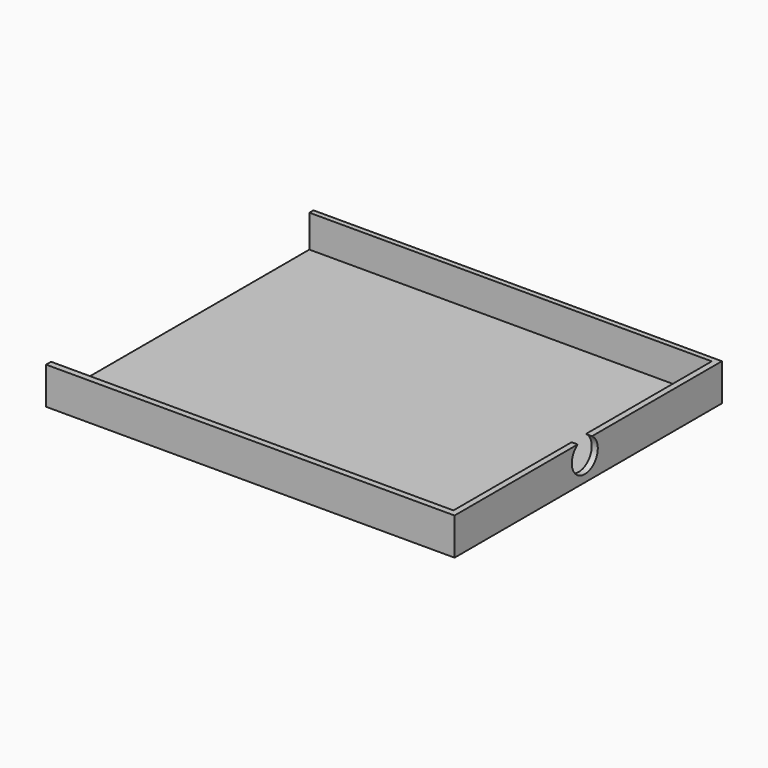
from build123d import *

# Parameters (mm, degrees)
F0_W           = 90
F0_H           = 72
F1_DEPTH       = 8
F2_W           = 87.5752791762
F2_H           = 69.5543810725
F3_DEPTH       = 7
F5_D           = 7
F5_CBORE_D     = 7
F5_CBORE_DEPTH = 1
F7_DEPTH       = 2


with BuildPart() as f1:
    # F0 (on Top) → F1 (new body)
    with BuildSketch(Plane.XY):
        with Locations((-1.6035065055, 0.9231414078)):
            Rectangle(F0_W, F0_H)
    extrude(amount=F1_DEPTH)

    # F2 (on face) → F3 (cut)
    with BuildSketch(Plane.XY.offset(8)):
        with Locations((-1.6968734562, 1.0423921049)):
            Rectangle(F2_W, F2_H)
    extrude(amount=-F3_DEPTH, mode=Mode.SUBTRACT)

    # F5 (through all)
    with Locations(Plane(origin=(-46.6035065055, 0, 0), x_dir=(0, -1, 0), z_dir=(-1, 0, 0))):
        with Locations((0, 5.0745382905)):
            CounterBoreHole(F5_D / 2, F5_CBORE_D / 2, F5_CBORE_DEPTH)

    # F6 (on face) → F7 (cut)
    with BuildSketch(Plane(origin=(-46.6035065055, 0, 0), x_dir=(0, -1, 0), z_dir=(-1, 0, 0))):
        with BuildLine():
            Line((-36.9231414078, 8), (-36.9231414078, 0))
            Line((-36.9231414078, 0), (35.0768585922, 0))
            Line((35.0768585922, 0), (35.0768585922, 8))
            Line((35.0768585922, 8), (1.921372891, 8))
            ThreePointArc((1.921372891, 8), (0, 1.5745382905), (-1.921372891, 8))
            Line((-1.921372891, 8), (-36.9231414078, 8))
        make_face()
    extrude(amount=-F7_DEPTH, mode=Mode.SUBTRACT)


solid = f1.part
